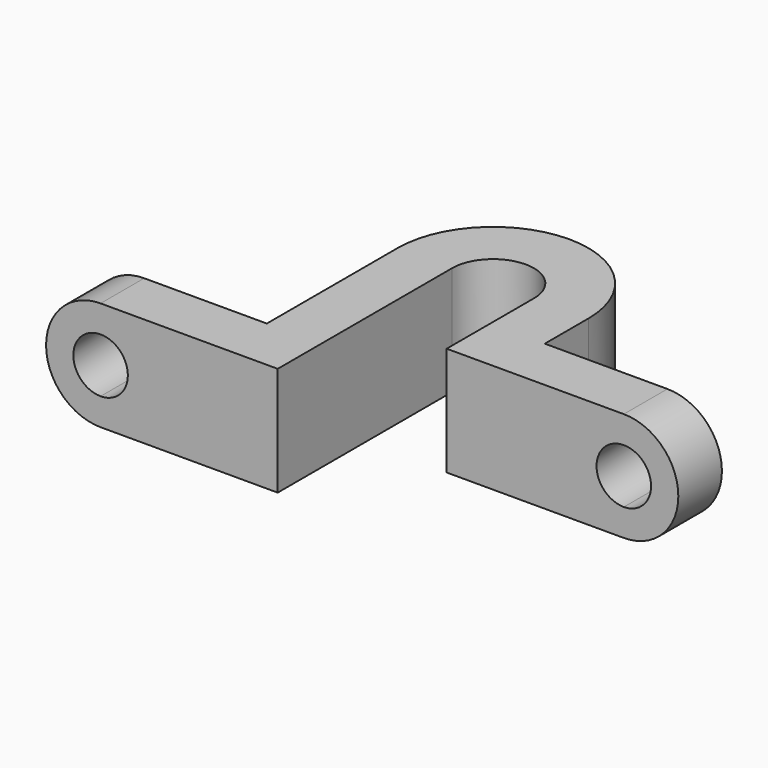
from build123d import *

# Parameters (mm, degrees)
F0_W     = 28.575
F0_H     = 12.7
F0_W_2   = 12.7
F0_H_2   = 38.1
F1_DEPTH = 25.4
F2_W     = 12.7
F2_H     = 12.7
F4_W     = 12.7
F4_H     = 12.7
F7_DEPTH = 25.4
F9_DEPTH = 25.4


with BuildPart() as f1:
    # F0 (on Top) → F1 (new body)
    with BuildSketch(Plane.XY):
        with Locations((-36.5125, -44.45)):
            Rectangle(F0_W, F0_H)
        with Locations((-15.875, -19.05)):
            Rectangle(F0_W_2, F0_H_2)
        with BuildLine():
            ThreePointArc((22.225, 0), (0, 22.225), (-22.225, 0))
            Line((-22.225, 0), (-9.525, 0))
            ThreePointArc((-9.525, 0), (0, 9.525), (9.525, 0))
            Line((9.525, 0), (22.225, 0))
        make_face()
        with Locations((15.875, -6.35)):
            Rectangle(F0_W_2, F0_H)
        with Locations((15.875, -19.05)):
            Rectangle(F0_W_2, F0_H)
        with Locations((36.5125, -19.05)):
            Rectangle(F0_W, F0_H)
        with Locations((-15.875, -44.45)):
            Rectangle(F0_W_2, F0_H)
    extrude(amount=F1_DEPTH)

    # F2 (on face) → F3 (revolve)
    with BuildSketch(Plane(origin=(-50.8, 0, 0), x_dir=(0, -1, 0), z_dir=(-1, 0, 0))):
        with Locations((44.45, 19.05)):
            Rectangle(F2_W, F2_H)
    revolve(axis=Axis((-50.8, -44.45, 12.7), (0, -1, 0)))

    # F4 (on face) → F5 (revolve)
    with BuildSketch(Plane.YZ.offset(50.8)):
        with Locations((-19.05, 19.05)):
            Rectangle(F4_W, F4_H)
    revolve(axis=Axis((50.8, -19.05, 12.7), (0, 1, 0)))

    # F6 (on face) → F7 (cut)
    with BuildSketch(Plane.XZ.offset(25.4)):
        with BuildLine():
            ThreePointArc((57.15, 12.7), (55.290128, 17.190128), (50.8, 19.05))
            Line((50.8, 19.05), (50.8, 6.35))
            ThreePointArc((50.8, 6.35), (55.290128, 8.209872), (57.15, 12.7))
        make_face()
        with BuildLine():
            Line((50.8, 6.35), (50.8, 19.05))
            ThreePointArc((50.8, 19.05), (44.45, 12.7), (50.8, 6.35))
        make_face()
    extrude(amount=-F7_DEPTH, mode=Mode.SUBTRACT)

    # F8 (on face) → F9 (cut)
    with BuildSketch(Plane.XZ.offset(50.8)):
        with BuildLine():
            ThreePointArc((-44.45, 12.7), (-46.309872, 17.190128), (-50.8, 19.05))
            Line((-50.8, 19.05), (-50.8, 6.35))
            ThreePointArc((-50.8, 6.35), (-46.309872, 8.209872), (-44.45, 12.7))
        make_face()
        with BuildLine():
            Line((-50.8, 6.35), (-50.8, 19.05))
            ThreePointArc((-50.8, 19.05), (-57.15, 12.7), (-50.8, 6.35))
        make_face()
    extrude(amount=-F9_DEPTH, mode=Mode.SUBTRACT)


solid = f1.part
